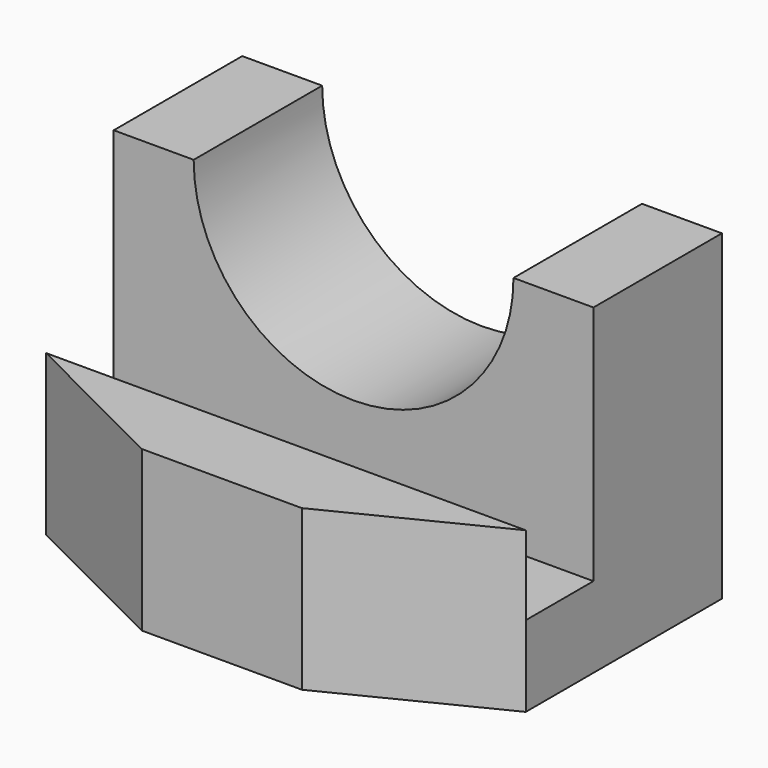
from build123d import *

# Parameters (mm, degrees)
F1_DEPTH = 60
F3_DEPTH = 30.66775
F4_W     = 60
F4_H     = 20
F5_DEPTH = 10
F7_DEPTH = 20.001


with BuildPart() as f1:
    # F0 (on Right) → F1 (new body)
    with BuildSketch(Plane.YZ):
        Polygon((0, 10.099097), (0, 0), (30.66675, 0), (30.66675, 40.234312), (10.576608, 40.234312), (10.576608, 10.099097), align=None)
    extrude(amount=-F1_DEPTH)

    # F2 (on face) → F3 (cut, through all)
    with BuildSketch(Plane(origin=(0, 30.66675, 0), x_dir=(-1, 0, 0), z_dir=(0, 1, 0))):
        with BuildLine():
            Line((50, 40.234312), (10, 40.234312))
            ThreePointArc((10, 40.234312), (30, 20.234312), (50, 40.234312))
        make_face()
    extrude(amount=-F3_DEPTH, mode=Mode.SUBTRACT)

    # F4 (on face) → F5 (join)
    with BuildSketch(Plane.XZ):
        with Locations((-30, 10)):
            Rectangle(F4_W, F4_H)
    extrude(amount=F5_DEPTH)

    # F6 (on face) → F7 (cut, through all)
    with BuildSketch(Plane.XY.offset(20)):
        Polygon((0, 0), (-20, -10), (0, -10), align=None)
        Polygon((-40, -10), (-60, 0), (-60, -10), align=None)
    extrude(amount=-F7_DEPTH, mode=Mode.SUBTRACT)


solid = f1.part
